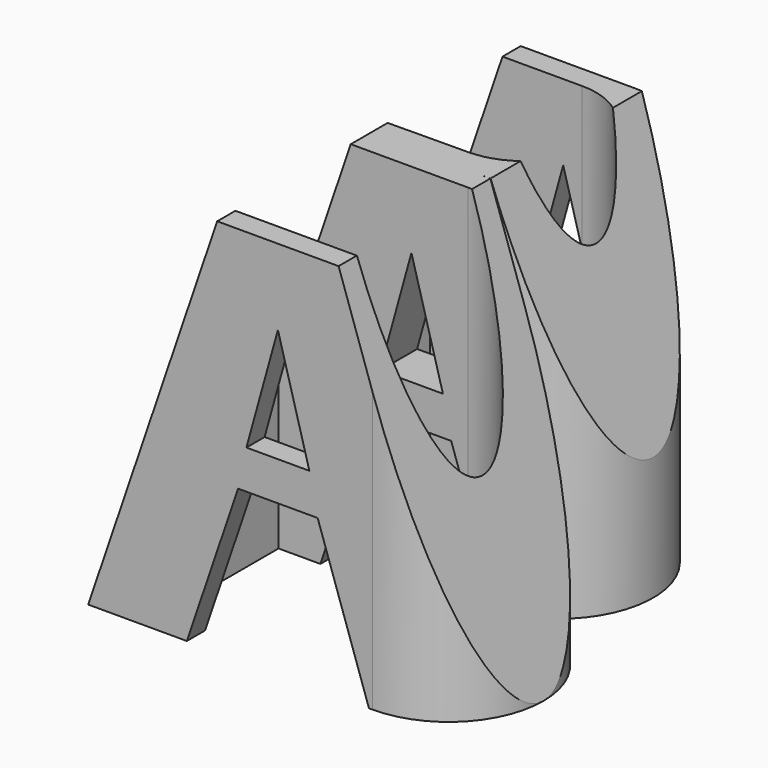
from build123d import *

# Parameters (mm, degrees)
F0_W     = 50
F0_H     = 50
F1_DEPTH = 25
F4_DEPTH = 50
F7_DEPTH = 50


with BuildPart() as f1:
    # F0 (on Front) → F1 (new body, symmetric)
    with BuildSketch(Plane.XZ):
        Rectangle(F0_W, F0_H)
    extrude(amount=F1_DEPTH, both=True)

    # F3 (on offset) → F4 (cut)
    with BuildSketch(Plane.XZ.offset(25)):
        Polygon((-8, 25), (-25, 25), (-25, -25), align=None)
        Polygon((4.149, 0), (0, 15), (-4.149486, 0), (0, 0), align=None)
        Polygon((8, 25), (25, -25), (25, 25), align=None)
        Polygon((-5.240043, -5.117772), (-12, -25), (12, -25), (5.240043, -5.117772), align=None)
    extrude(amount=-F4_DEPTH, mode=Mode.SUBTRACT)

    # F6 (on offset) → F7 (cut)
    with BuildSketch(Plane.XY.offset(25)):
        with BuildLine():
            Line((25, 25), (6.959901, 25))
            ThreePointArc((6.959901, 25), (19.459901, 12.5), (6.959901, 0))
            Line((6.959901, 0), (7.5, 0))
            Line((7.5, 0), (12.5, 0))
            ThreePointArc((12.5, 0), (21.338835, -3.661165), (25, -12.5))
            Line((25, -12.5), (25, 25))
        make_face()
        with BuildLine():
            ThreePointArc((25, -12.5), (21.338835, -21.338835), (12.5, -25))
            Line((12.5, -25), (25, -25))
            Line((25, -25), (25, -12.5))
        make_face()
        with BuildLine():
            Line((7.486049, -3), (-17.513951, -3))
            Line((-17.513951, -3), (-17.513951, -22))
            Line((-17.513951, -22), (7.486049, -22))
            ThreePointArc((7.486049, -22), (16.986049, -12.5), (7.486049, -3))
        make_face()
        with BuildLine():
            Line((2.459141, 21.999886), (-17.540099, 21.999886))
            Line((-17.540099, 21.999886), (-17.540099, 2.999886))
            Line((-17.540099, 2.999886), (2.459141, 3.174202))
            ThreePointArc((2.459141, 3.174202), (11.871983, 12.587044), (2.459141, 21.999886))
        make_face()
    extrude(amount=-F7_DEPTH, mode=Mode.SUBTRACT)


solid = f1.part
